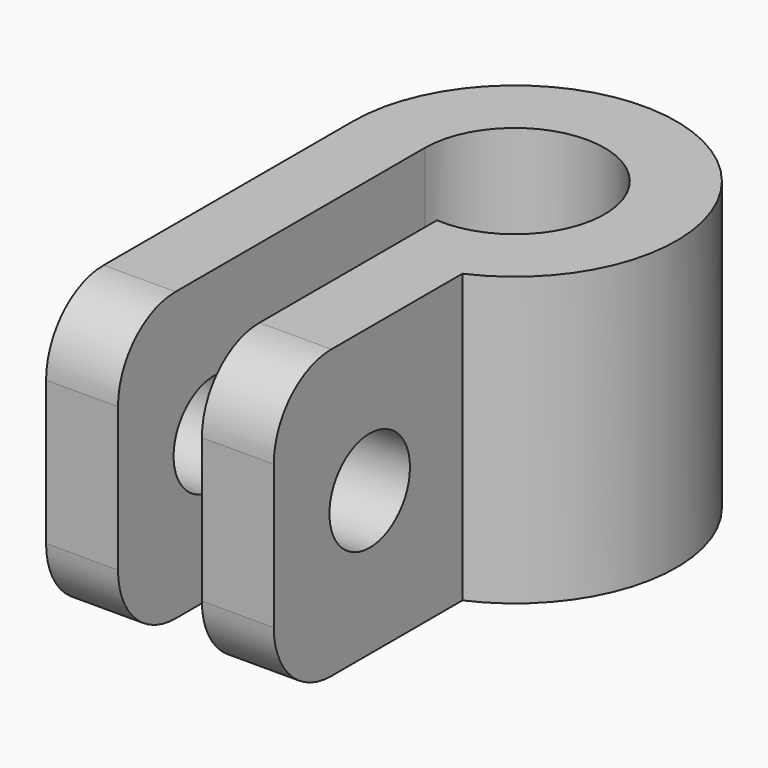
from build123d import *

# Parameters (mm, degrees)
PAD_DEPTH    = 12
SKETCH001_R  = 2.1
POCKET_DEPTH = 9.501
FILLET_R     = 3
FILLET001_R  = 3


with BuildPart() as part:
    # Sketch → Pad (new body)
    with BuildSketch(Plane.XY):
        with BuildLine():
            ThreePointArc((-0.25, -3.741657), (2.738613, 2.561738), (-3.75, 0))
            Line((-3.75, -16), (-3.75, 0))
            Line((-6.75, -16), (-3.75, -16))
            Line((-6.75, 0), (-6.75, -16))
            ThreePointArc((2.75, -6.164414), (3.674235, 5.662376), (-6.75, 0))
            Line((2.75, -16), (2.75, -6.164414))
            Line((-0.25, -16), (2.75, -16))
            Line((-0.25, -3.741657), (-0.25, -16))
        make_face()
    extrude(amount=PAD_DEPTH)

    # Sketch001 → Pocket (cut, through all)
    with BuildSketch(Plane.YZ.offset(2.75)):
        with Locations((-11, 6)):
            Circle(SKETCH001_R)
    extrude(amount=-POCKET_DEPTH, mode=Mode.SUBTRACT)

    # Fillet
    fillet_edges = [part.edges().sort_by_distance(p)[0] for p in [
        (1.25, -16, 0),
        (-5.25, -16, 0),
    ]]
    fillet(fillet_edges, radius=FILLET_R)

    # Fillet001
    fillet001_edges = [part.edges().sort_by_distance(p)[0] for p in [
        (-5.25, -16, 12),
        (1.25, -16, 12),
    ]]
    fillet(fillet001_edges, radius=FILLET001_R)


solid = part.part
